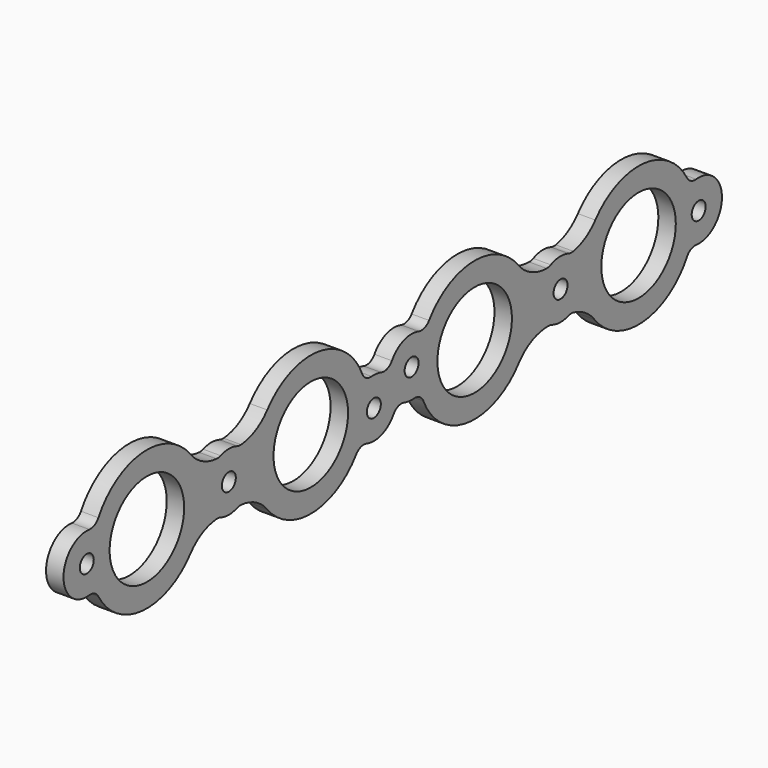
from build123d import *

# Parameters (mm, degrees)
F3_R     = 4.7625
F3_R_2   = 31.75
F3_R_3   = 25.4
F8_DEPTH = 9.525


with BuildPart() as f8:
    # F3 (on offset) → F8 (new body)
    with BuildSketch(Plane.YZ.offset(-203.2)):
        with BuildLine():
            ThreePointArc((504.085483, 127.539883), (500.512376, 128.192005), (497.881204, 130.69586))
            ThreePointArc((497.881204, 130.69586), (467.968772, 149.729662), (435.329623, 135.883177))
            ThreePointArc((435.329623, 135.883177), (428.605586, 130.10633), (420.305835, 126.992045))
            ThreePointArc((420.305835, 126.992045), (418.631702, 126.906277), (416.99346, 127.261584))
            ThreePointArc((416.99346, 127.261584), (410.909202, 128.18666), (404.930309, 126.728302))
            ThreePointArc((404.930309, 126.728302), (403.577562, 126.277317), (402.15829, 126.139551))
            ThreePointArc((402.15829, 126.139551), (391.400337, 128.718459), (382.759018, 135.62584))
            ThreePointArc((382.759018, 135.62584), (351.898546, 149.842293), (321.961786, 133.771613))
            ThreePointArc((321.961786, 133.771613), (318.79924, 131.420238), (314.858479, 131.387525))
            ThreePointArc((314.858479, 131.387525), (304.601343, 131.163607), (296.623197, 124.713168))
            ThreePointArc((296.623197, 124.713168), (293.400016, 122.121405), (289.264455, 122.064311))
            ThreePointArc((289.264455, 122.064311), (286.078264, 122.760136), (282.817118, 122.790184))
            ThreePointArc((282.817118, 122.790184), (278.969036, 123.659479), (276.37693, 126.633432))
            ThreePointArc((276.37693, 126.633432), (246.538925, 149.498093), (211.600982, 135.62584))
            ThreePointArc((211.600982, 135.62584), (203.667081, 129.078189), (193.787021, 126.214112))
            ThreePointArc((193.787021, 126.214112), (192.392802, 126.258483), (191.041911, 126.606203))
            ThreePointArc((191.041911, 126.606203), (185.42, 127.635), (179.798089, 126.606203))
            ThreePointArc((179.798089, 126.606203), (178.447198, 126.258483), (177.052979, 126.214112))
            ThreePointArc((177.052979, 126.214112), (167.172919, 129.078189), (159.239018, 135.62584))
            ThreePointArc((159.239018, 135.62584), (126.556336, 149.742993), (96.478796, 130.69586))
            ThreePointArc((96.478796, 130.69586), (93.847624, 128.192005), (90.274517, 127.539883))
            ThreePointArc((90.274517, 127.539883), (72.66432, 111.76), (90.274517, 95.980117))
            ThreePointArc((90.274517, 95.980117), (93.847624, 95.327995), (96.478796, 92.82414))
            ThreePointArc((96.478796, 92.82414), (126.556336, 73.777007), (159.239018, 87.89416))
            ThreePointArc((159.239018, 87.89416), (167.172919, 94.441811), (177.052979, 97.305888))
            ThreePointArc((177.052979, 97.305888), (178.447198, 97.261517), (179.798089, 96.913797))
            ThreePointArc((179.798089, 96.913797), (185.42, 95.885), (191.041911, 96.913797))
            ThreePointArc((191.041911, 96.913797), (192.392802, 97.261517), (193.787021, 97.305888))
            ThreePointArc((193.787021, 97.305888), (203.667081, 94.441811), (211.600982, 87.89416))
            ThreePointArc((211.600982, 87.89416), (242.341876, 73.674248), (272.259375, 89.553535))
            ThreePointArc((272.259375, 89.553535), (275.440775, 91.886366), (279.385822, 91.890269))
            ThreePointArc((279.385822, 91.890269), (289.701554, 92.056216), (297.736803, 98.527432))
            ThreePointArc((297.736803, 98.527432), (300.959984, 101.119195), (305.095545, 101.176289))
            ThreePointArc((305.095545, 101.176289), (308.322678, 100.475909), (311.62489, 100.458336))
            ThreePointArc((311.62489, 100.458336), (315.473668, 99.611242), (318.081479, 96.656587))
            ThreePointArc((318.081479, 96.656587), (348.184283, 73.973264), (383.059023, 88.272373))
            ThreePointArc((383.059023, 88.272373), (392.162049, 95.558021), (403.56111, 98.008978))
            ThreePointArc((403.56111, 98.008978), (404.685964, 97.885867), (405.771107, 97.565059))
            ThreePointArc((405.771107, 97.565059), (411.310239, 96.454986), (416.887372, 97.3549))
            ThreePointArc((416.887372, 97.3549), (418.651149, 97.706509), (420.442765, 97.549504))
            ThreePointArc((420.442765, 97.549504), (428.371848, 94.199323), (434.726695, 88.393293))
            ThreePointArc((434.726695, 88.393293), (467.486497, 73.753424), (497.881204, 92.82414))
            ThreePointArc((497.881204, 92.82414), (500.512376, 95.327995), (504.085483, 95.980117))
            ThreePointArc((504.085483, 95.980117), (521.69568, 111.76), (504.085483, 127.539883))
        make_face()
        with Locations((88.53932, 111.76)):
            Circle(F3_R, mode=Mode.SUBTRACT)
        with Locations((129.54, 111.76)):
            Circle(F3_R_2, mode=Mode.SUBTRACT)
        with Locations((185.42, 111.76)):
            Circle(F3_R, mode=Mode.SUBTRACT)
        with Locations((284.3022, 106.9848)):
            Circle(F3_R, mode=Mode.SUBTRACT)
        with Locations((241.3, 111.76)):
            Circle(F3_R_2, mode=Mode.SUBTRACT)
        with Locations((353.06, 111.76)):
            Circle(F3_R_2, mode=Mode.SUBTRACT)
        with Locations((464.82, 111.76)):
            Circle(F3_R_2, mode=Mode.SUBTRACT)
        with Locations((505.82068, 111.76)):
            Circle(F3_R, mode=Mode.SUBTRACT)
        with Locations((310.0578, 116.2558)):
            Circle(F3_R, mode=Mode.SUBTRACT)
        with Locations((411.610311, 112.327149)):
            Circle(F3_R, mode=Mode.SUBTRACT)
        with Locations((129.54, 111.76)):
            Circle(F3_R_2)
        with Locations((129.54, 111.76)):
            Circle(F3_R_3, mode=Mode.SUBTRACT)
        with Locations((241.3, 111.76)):
            Circle(F3_R_2)
        with Locations((241.3, 111.76)):
            Circle(F3_R_3, mode=Mode.SUBTRACT)
        with Locations((353.06, 111.76)):
            Circle(F3_R_2)
        with Locations((353.06, 111.76)):
            Circle(F3_R_3, mode=Mode.SUBTRACT)
        with Locations((464.82, 111.76)):
            Circle(F3_R_2)
        with Locations((464.82, 111.76)):
            Circle(F3_R_3, mode=Mode.SUBTRACT)
    extrude(amount=F8_DEPTH)


solid = f8.part
